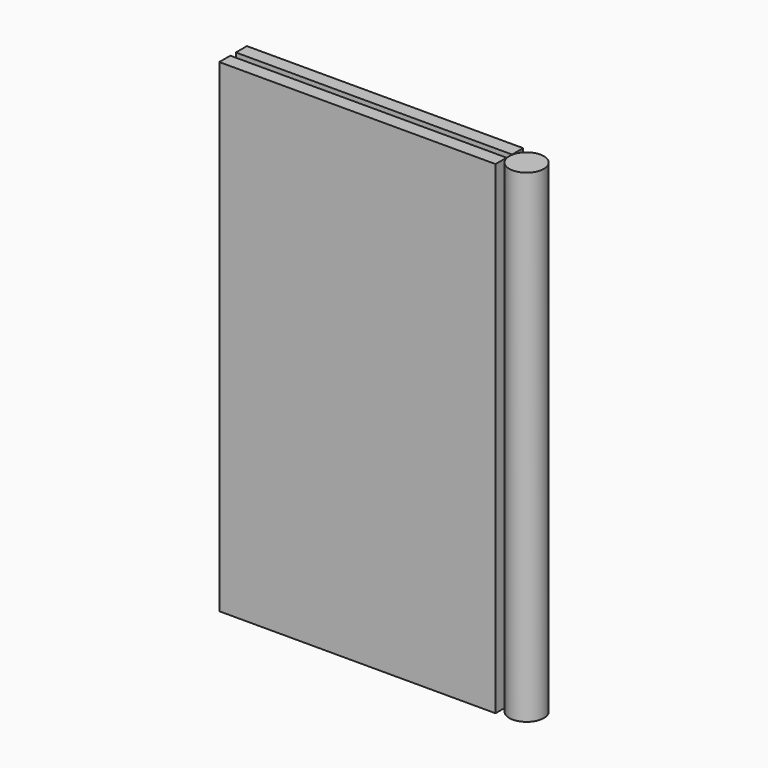
from build123d import *

# Parameters (mm, degrees)
BOX009001003002001001_W     = 2
BOX009001003002001001_H     = 40
BOX009001003002001001_DEPTH = 70
BOX009001003002002_W        = 2
BOX009001003002002_H        = 40
BOX009001003002002_DEPTH    = 70
CYLINDER005001001002_R      = 2.5
CYLINDER005001001002_DEPTH  = 70
FUSION_PLACEMENT_ANGLE      = 90


with BuildPart() as obj1:
    # Box009001003002001001 → Box009001003002001001 (new body)
    with BuildSketch(Plane(origin=(3, 0, 0), x_dir=(1, 0, 0), z_dir=(0, 0, 1))):
        with Locations((1, 20)):
            Rectangle(BOX009001003002001001_W, BOX009001003002001001_H)
    extrude(amount=BOX009001003002001001_DEPTH)


with BuildPart() as obj2:
    # Box009001003002002 → Box009001003002002 (new body)
    with BuildSketch(Plane.XY):
        with Locations((1, 20)):
            Rectangle(BOX009001003002002_W, BOX009001003002002_H)
    extrude(amount=BOX009001003002002_DEPTH)


with BuildPart() as hinge001:
    # Cylinder005001001002 → Cylinder005001001002 (new body)
    with BuildSketch(Plane(origin=(2.5, -2.5, 0), x_dir=(1, 0, 0), z_dir=(0, 0, 1))):
        Circle(CYLINDER005001001002_R)
    extrude(amount=CYLINDER005001001002_DEPTH)

    # Fusion: union obj1, obj2
    add(obj1.part)
    add(obj2.part)


with BuildPart() as hinge001_1:
    # Fusion placement: moved
    add(hinge001.part.moved(Location((2173, 1643, 475.5))).rotate(Axis((2173, 1643, 475.5), (0, 0, 1)), FUSION_PLACEMENT_ANGLE))


solid = hinge001_1.part
